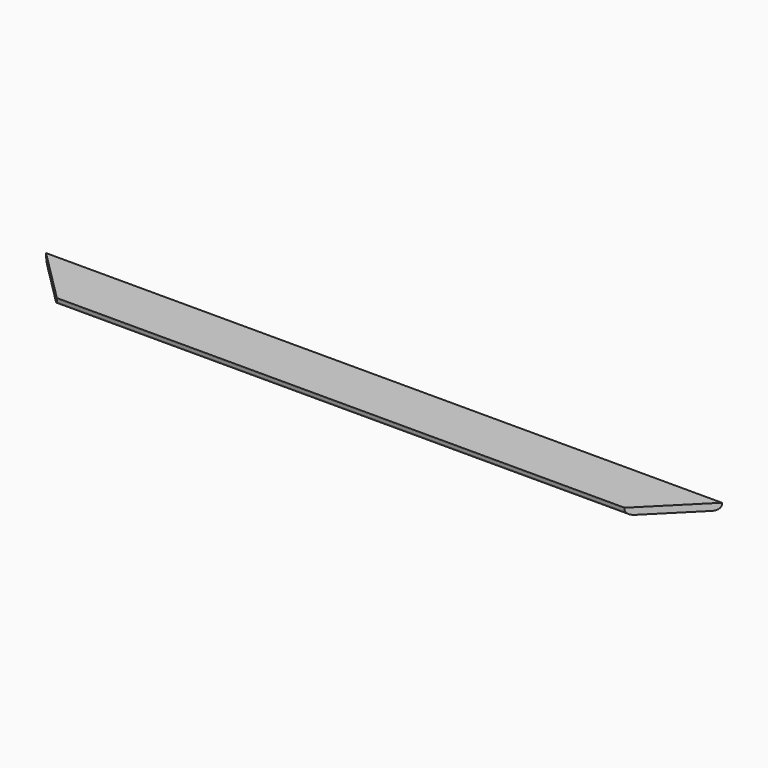
from build123d import *

# Parameters (mm, degrees)
F1_DEPTH = 3.175
F2_R     = 5.08


with BuildPart() as f1:
    # F0 (on Top) → F1 (new body, symmetric)
    with BuildSketch(Plane.XY):
        Polygon((327.903505, 0), (-307.096495, 0), (-256.296495, -50.8), (277.103505, -50.8), align=None)
    extrude(amount=F1_DEPTH, both=True)

    # F2
    f2_edges = [f1.edges().sort_by_distance(p)[0] for p in [
        (10.403505, 0, -3.175),
        (10.403505, -50.8, -3.175),
    ]]
    fillet(f2_edges, radius=F2_R)


solid = f1.part
